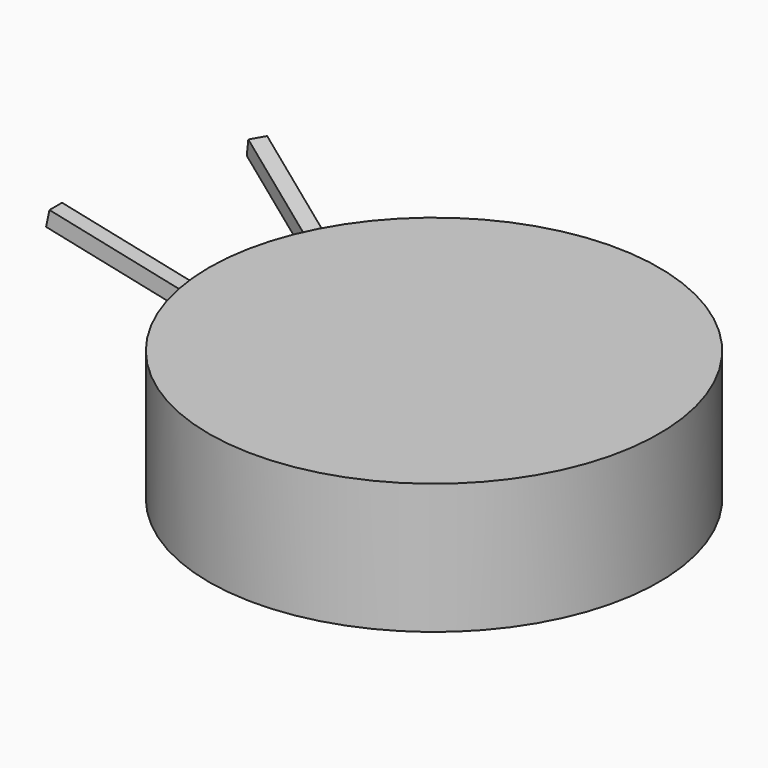
from build123d import *

# Parameters (mm, degrees)
F2_DEPTH = 2.5
F3_COUNT = 2
F3_ANGLE = 30


with BuildPart() as f1:
    # F0 (on Front) → F1 (revolve)
    with BuildSketch(Plane.XZ):
        Polygon((-71.3012740016, 0), (0, 0), (0, 41.3423627615), (-71.3012740016, 41.3423627615), (-71.3012740016, 32.3902414565), (-51.2194111943, 28.151858598), (-52.2884099565, 23.0868403589), (-71.3012740016, 27.0996054014), align=None)
        Polygon((-71.3012740016, 32.3902414565), (-71.3012740016, 27.0996054014), (-52.2884099565, 23.0868403589), (-51.2194111943, 28.151858598), align=None)
    revolve(axis=Axis((0, 0, 20.6711813807), (0, 0, 1)))

    # F0 (on Front) → F2 (join, symmetric)
    with BuildSketch(Plane.XZ):
        Polygon((-120.9029449902, 37.5682991719), (-71.3012740016, 27.0996054014), (-71.3012740016, 32.3902414565), (-119.833946228, 42.6333174109), align=None)
        Polygon((-71.3012740016, 32.3902414565), (-71.3012740016, 27.0996054014), (-52.2884099565, 23.0868403589), (-51.2194111943, 28.151858598), align=None)
    f2 = extrude(amount=F2_DEPTH, both=True)

    # F3: F2 ×2 about axis
    f3_axis = Axis((0, 0, 41.3423627615), (0, 0, -1))
    for i in range(1, F3_COUNT):
        add(f2.rotate(f3_axis, i * F3_ANGLE / (F3_COUNT - 1)))


solid = f1.part
